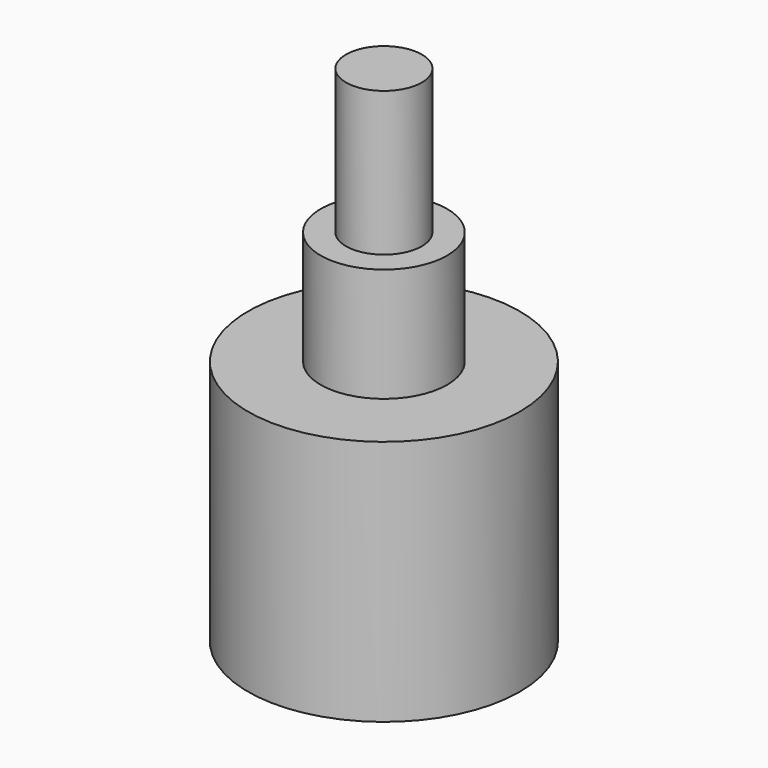
from build123d import *

# Parameters (mm, degrees)
CYLINDER053_R     = 5
CYLINDER053_DEPTH = 9
CYLINDER054_R     = 3
CYLINDER054_DEPTH = 11.4
CYLINDER052_R     = 10.75
CYLINDER052_DEPTH = 19.5


with BuildPart() as pot_thread:
    # Cylinder053 → Cylinder053 (new body)
    with BuildSketch(Plane.XY.offset(19.5)):
        Circle(CYLINDER053_R)
    extrude(amount=CYLINDER053_DEPTH)


with BuildPart() as pot_axis:
    # Cylinder054 → Cylinder054 (new body)
    with BuildSketch(Plane.XY.offset(28.5)):
        Circle(CYLINDER054_R)
    extrude(amount=CYLINDER054_DEPTH)


with BuildPart() as obj1:
    # Cylinder052 → Cylinder052 (new body)
    with BuildSketch(Plane.XY):
        Circle(CYLINDER052_R)
    extrude(amount=CYLINDER052_DEPTH)

    # Fusion024: union pot-thread, pot-axis
    add(pot_thread.part)
    add(pot_axis.part)


with BuildPart() as obj1_1:
    # Fusion024 placement: moved
    add(obj1.part.moved(Location((0, 0, 10.7))))


solid = obj1_1.part
